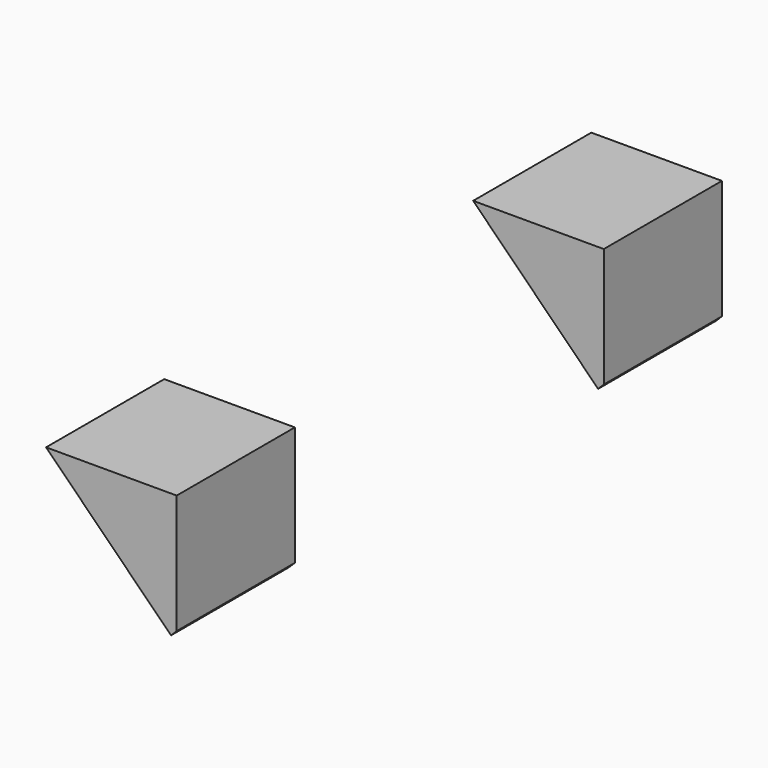
from build123d import *

# Parameters (mm, degrees)
BOX112015002017004007004038010_W     = 31
BOX112015002017004007004038010_H     = 70
BOX112015002017004007004038010_DEPTH = 15
BOX112015002017004007004038009_W     = 31
BOX112015002017004007004038009_H     = 34
BOX112015002017004007004038009_DEPTH = 15
BOX112015002017004007004018_W        = 100
BOX112015002017004007004018_H        = 100
BOX112015002017004007004018_DEPTH    = 20
BOX112015002017004007004017_W        = 16
BOX112015002017004007004017_H        = 60
BOX112015002017004007004017_DEPTH    = 16
CUT254_PLACEMENT_ANGLE               = 135
CUT255_PLACEMENT_ANGLE               = 180


with BuildPart() as cube126:
    # Box112015002017004007004038010 → Box112015002017004007004038010 (new body)
    with BuildSketch(Plane(origin=(0.5, -35, -13), x_dir=(1, 0, 0), z_dir=(0, 0, 1))):
        with Locations((15.5, 35)):
            Rectangle(BOX112015002017004007004038010_W, BOX112015002017004007004038010_H)
    extrude(amount=BOX112015002017004007004038010_DEPTH)


with BuildPart() as fusion051010010012015014030:
    # Box112015002017004007004038009 → Box112015002017004007004038009 (new body)
    with BuildSketch(Plane(origin=(-15.5, -17, -13), x_dir=(1, 0, 0), z_dir=(0, 0, 1))):
        with Locations((15.5, 17)):
            Rectangle(BOX112015002017004007004038009_W, BOX112015002017004007004038009_H)
    extrude(amount=BOX112015002017004007004038009_DEPTH)

    # Fusion051010010012015014030: union Cube126
    add(cube126.part)


with BuildPart() as cube101:
    # Box112015002017004007004018 → Box112015002017004007004018 (new body)
    with BuildSketch(Plane(origin=(-50, -50, -28), x_dir=(1, 0, 0), z_dir=(0, 0, 1))):
        with Locations((50, 50)):
            Rectangle(BOX112015002017004007004018_W, BOX112015002017004007004018_H)
    extrude(amount=BOX112015002017004007004018_DEPTH)


with BuildPart() as sphere006006006006009:
    # Sphere006006006006009 → Sphere006006006006009 (revolve)
    with BuildSketch(Plane(origin=(8, -25, 1.2), x_dir=(1, 0, 0), z_dir=(0, -1, 0))):
        with BuildLine():
            ThreePointArc((0, -3.05), (3.05, 0), (0, 3.05))
            Line((0, 3.05), (0, -3.05))
        make_face()
    revolve(axis=Axis((8, -25, 1.2), (0, 0, 1)))


with BuildPart() as sphere006006006006008:
    # Sphere006006006006008 → Sphere006006006006008 (revolve)
    with BuildSketch(Plane(origin=(8, 25, 1.2), x_dir=(1, 0, 0), z_dir=(0, -1, 0))):
        with BuildLine():
            ThreePointArc((0, -3.05), (3.05, 0), (0, 3.05))
            Line((0, 3.05), (0, -3.05))
        make_face()
    revolve(axis=Axis((8, 25, 1.2), (0, 0, 1)))


with BuildPart() as ball_socket_tabs:
    # Box112015002017004007004017 → Box112015002017004007004017 (new body)
    with BuildSketch(Plane(origin=(0, -30, 0), x_dir=(1, 0, 0), z_dir=(0, 0, 1))):
        with Locations((8, 30)):
            Rectangle(BOX112015002017004007004017_W, BOX112015002017004007004017_H)
    extrude(amount=BOX112015002017004007004017_DEPTH)

    # Cut253: cut Sphere006006006006008
    add(sphere006006006006008.part, mode=Mode.SUBTRACT)

    # Cut254: cut Sphere006006006006009
    add(sphere006006006006009.part, mode=Mode.SUBTRACT)


with BuildPart() as ball_socket_tabs_1:
    # Cut254 placement: moved
    add(ball_socket_tabs.part.moved(Location((-22, 0, 3))).rotate(Axis((-22, 0, 3), (0, 1, 0)), CUT254_PLACEMENT_ANGLE))

    # Cut255: cut Cube101
    add(cube101.part, mode=Mode.SUBTRACT)


with BuildPart() as ball_socket_tabs_2:
    # Cut255 placement: moved
    add(ball_socket_tabs_1.part.moved(Location((22, 0, -8))).rotate(Axis((22, 0, -8), (1, 0, 0)), CUT255_PLACEMENT_ANGLE))

    # Cut294: cut Fusion051010010012015014030
    add(fusion051010010012015014030.part, mode=Mode.SUBTRACT)


solid = ball_socket_tabs_2.part
